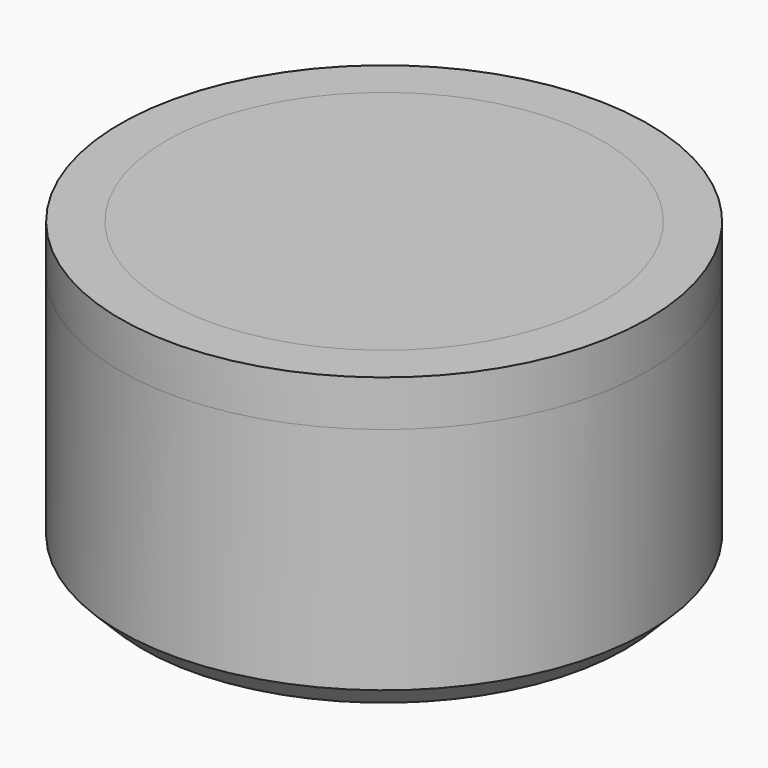
from build123d import *

# Parameters (mm, degrees)
F0_R      = 73.025
F0_R_2    = 60.325
F1_DEPTH  = 69.85
F2_DEPTH  = 57.15
F3_SIZE   = 6.35
F4_DEPTH  = 12.7
F4_FACE_R = 73.025
F5_DEPTH  = 12.7


with BuildPart() as f1:
    # F0 (on Top) → F1 (new body)
    with BuildSketch(Plane.XY):
        Circle(F0_R)
        Circle(F0_R_2, mode=Mode.SUBTRACT)
        Circle(F0_R_2)
    extrude(amount=-F1_DEPTH)

    # F0 (on Top) → F2 (cut)
    with BuildSketch(Plane.XY):
        Circle(F0_R_2)
    extrude(amount=-F2_DEPTH, mode=Mode.SUBTRACT)

    # F3
    f3_edges = [f1.edges().sort_by_distance(p)[0] for p in [
        (-73.025, 0, -69.85),
    ]]
    chamfer(f3_edges, length=F3_SIZE)

    # F0 (on Top) → F4 (join)
    with BuildSketch(Plane.XY):
        Circle(F0_R_2)
        Circle(F0_R)
        Circle(F0_R_2, mode=Mode.SUBTRACT)
    extrude(amount=F4_DEPTH)

    # F4_face (on face) → F5 (join)
    with BuildSketch(Plane.XY.offset(12.7)):
        Circle(F4_FACE_R)
    extrude(amount=-F5_DEPTH)


solid = f1.part
